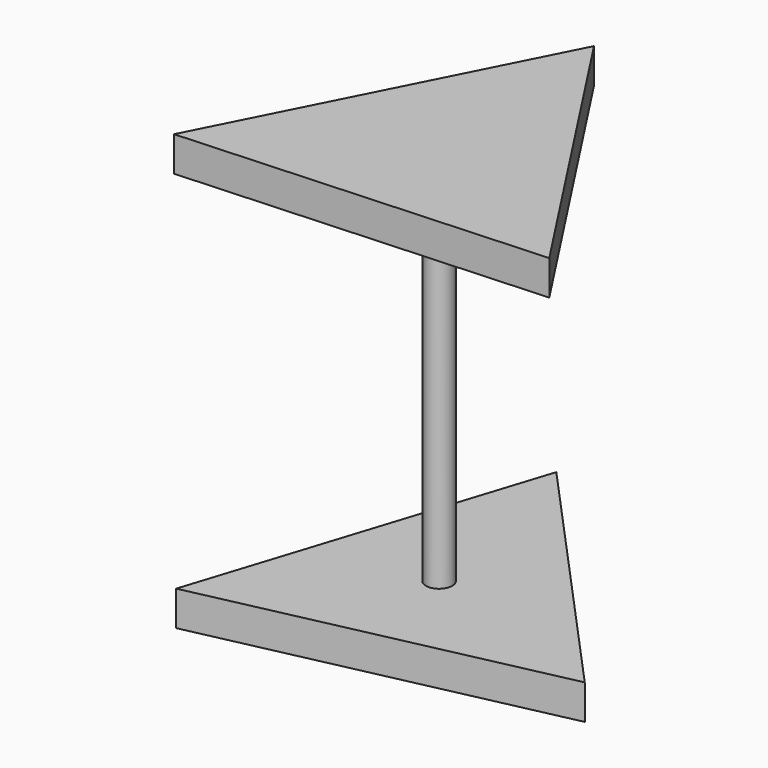
from build123d import *

# Parameters (mm, degrees)
F0_R     = 75.343822
F1_DEPTH = 2000
F3_DEPTH = 200
F5_DEPTH = 200


with BuildPart() as f1:
    # F0 (on Top) → F1 (new body)
    with BuildSketch(Plane.XY):
        Circle(F0_R)
    extrude(amount=F1_DEPTH)

    # F2 (on face) → F3 (join)
    with BuildSketch(Plane.XY.offset(2000)):
        Polygon((1065.697452, -540.804872), (-64.497968, 1193.323502), (-1001.199484, -652.51863), align=None)
    extrude(amount=F3_DEPTH)

    # F4 (on face) → F5 (join)
    with BuildSketch(Plane(origin=(0, 0, 0), x_dir=(1, 0, 0), z_dir=(0, 0, -1))):
        Polygon((1125.525307, 360.658096), (-875.101726, 794.40446), (-250.42358, -1155.062556), align=None)
    extrude(amount=F5_DEPTH)


solid = f1.part
